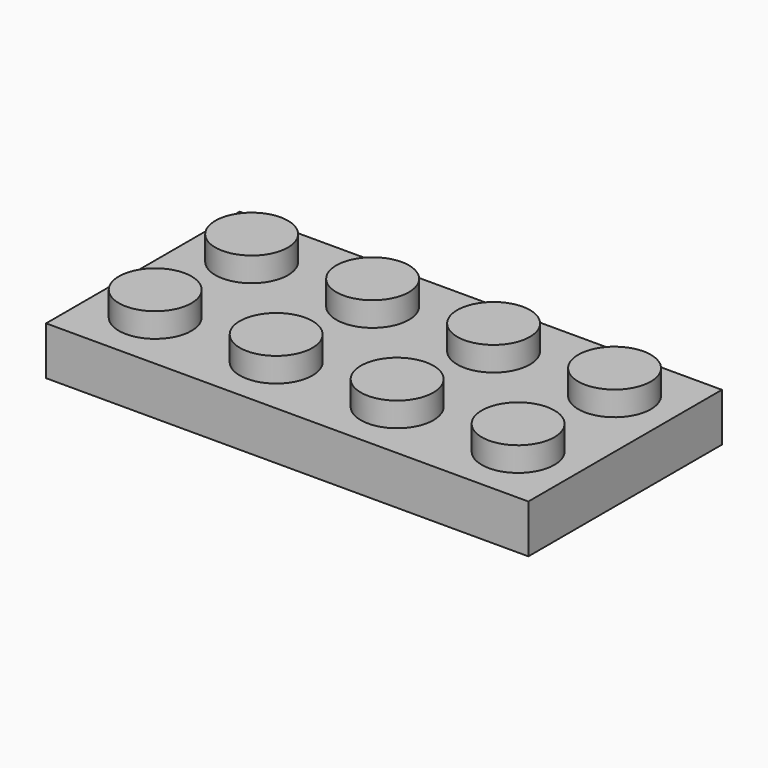
from build123d import *

# Parameters (mm, degrees)
F0_W     = 31.6992
F0_H     = 15.9004
F0_R     = 2.3876
F1_DEPTH = 3.175
F2_DEPTH = 4.7752
F3_T     = -1.6002


with BuildPart() as f1:
    # F0 (on Top) → F1 (new body)
    with BuildSketch(Plane.XY):
        with Locations((0.5139857531, -7.2151332219)):
            Rectangle(F0_W, F0_H)
        with Locations((-11.3732142469, -11.1521332219)):
            Circle(F0_R, mode=Mode.SUBTRACT)
        with Locations((-3.4230142469, -11.1521332219)):
            Circle(F0_R, mode=Mode.SUBTRACT)
        with Locations((4.5271857531, -11.1521332219)):
            Circle(F0_R, mode=Mode.SUBTRACT)
        with Locations((12.4773857531, -11.1521332219)):
            Circle(F0_R, mode=Mode.SUBTRACT)
        with Locations((-11.3732142469, -3.2273332219)):
            Circle(F0_R, mode=Mode.SUBTRACT)
        with Locations((-3.4230142469, -3.2273332219)):
            Circle(F0_R, mode=Mode.SUBTRACT)
        with Locations((4.5271857531, -3.2273332219)):
            Circle(F0_R, mode=Mode.SUBTRACT)
        with Locations((12.4773857531, -3.2273332219)):
            Circle(F0_R, mode=Mode.SUBTRACT)
    extrude(amount=F1_DEPTH)

    # F0 (on Top) → F2 (join)
    with BuildSketch(Plane.XY):
        with Locations((-11.3732142469, -3.2273332219)):
            Circle(F0_R)
        with Locations((-3.4230142469, -3.2273332219)):
            Circle(F0_R)
        with Locations((4.5271857531, -3.2273332219)):
            Circle(F0_R)
        with Locations((12.4773857531, -3.2273332219)):
            Circle(F0_R)
        with Locations((12.4773857531, -11.1521332219)):
            Circle(F0_R)
        with Locations((4.5271857531, -11.1521332219)):
            Circle(F0_R)
        with Locations((-3.4230142469, -11.1521332219)):
            Circle(F0_R)
        with Locations((-11.3732142469, -11.1521332219)):
            Circle(F0_R)
    extrude(amount=F2_DEPTH)

    # F3
    f3_openings = [f1.faces().sort_by_distance(p)[0] for p in [
        (0.513986, -7.215133, 0),
    ]]
    offset(amount=F3_T, openings=f3_openings, kind=Kind.INTERSECTION)


solid = f1.part
